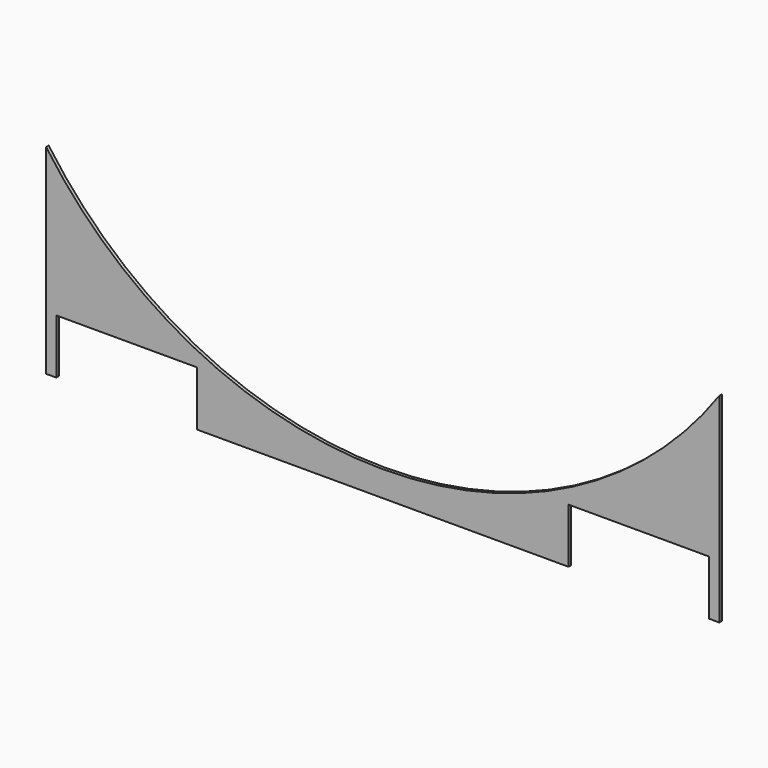
from build123d import *

# Parameters (mm, degrees)
F1_DEPTH = 4.7625


with BuildPart() as f1:
    # F0 (on Front) → F1 (new body)
    with BuildSketch(Plane.XZ):
        with BuildLine():
            Line((0, 295.275), (0, 0))
            Line((0, 0), (15.0876, 0))
            Line((15.0876, 0), (15.0876, 80.9625))
            Line((15.0876, 80.9625), (223.0501, 80.9625))
            Line((223.0501, 80.9625), (223.0501, 0))
            Line((223.0501, 0), (772.3251, 0))
            Line((772.3251, 0), (772.3251, 80.9625))
            Line((772.3251, 80.9625), (980.2876, 80.9625))
            Line((980.2876, 80.9625), (980.2876, 0))
            Line((980.2876, 0), (995.3752, 0))
            Line((995.3752, 0), (995.3752, 295.275))
            ThreePointArc((995.3752, 295.275), (497.6876, 37.696608), (0, 295.275))
        make_face()
    extrude(amount=F1_DEPTH)


solid = f1.part
